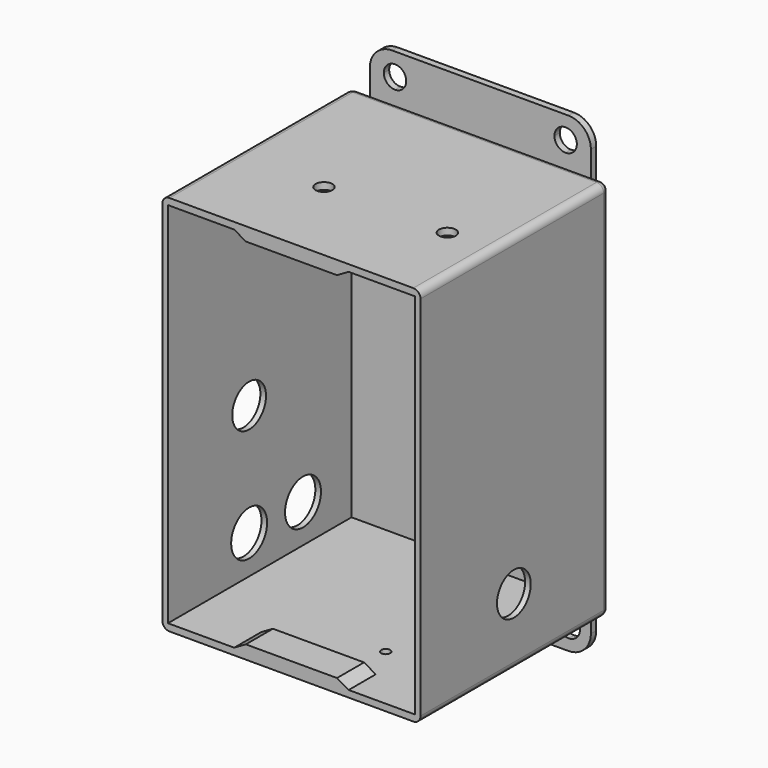
from build123d import *

# Parameters (mm, degrees)
F1_DEPTH   = 66.802
F2_DEPTH   = 1.9
F3_DEPTH   = 1.9
F4_R       = 2.032
F5_DEPTH   = 12.7
F6_DEPTH   = 12.7
F7_R       = 6.35
F8_DEPTH   = 1.5875
F9_R       = 1.27
F10_DEPTH  = 3.81
F11_W      = 43.18
F11_H      = 55.3302187473
F1_FACE3_W = 18.7325
F1_FACE3_H = 64.902
F12_DEPTH  = 1.905
F13_W      = 43.18
F13_H      = 55.3302187473
F14_DEPTH  = 1.905
F15_R      = 2.3749
F16_DEPTH  = 1.905
F17_R      = 5.969
F18_DEPTH  = 1.5875
F19_R      = 5.969
F20_DEPTH  = 1.5875


with BuildPart() as f1:
    # F0 (on Front) → F1 (new body)
    with BuildSketch(Plane.XZ):
        Polygon((62.2927888, 122.2015844), (-0.2547112, 122.2015844), (-5.4934612, 122.2015844), (-5.4934612, 14.2515844), (-0.2547112, 14.2515844), (62.2927888, 14.2515844), (67.5315388, 14.2515844), (67.5315388, 122.2015844), align=None)
        Polygon((65.9440388, 120.2965844), (65.9440388, 16.1565844), (47.2115388, 16.1565844), (43.9119772, 18.0615844), (18.1261004, 18.0615844), (14.8265388, 16.1565844), (-3.9059612, 16.1565844), (-3.9059612, 120.2965844), (14.8265388, 120.2965844), (18.1261004, 118.3915844), (43.9119772, 118.3915844), (47.2115388, 120.2965844), align=None, mode=Mode.SUBTRACT)
    extrude(amount=F1_DEPTH)

    # F0 (on Front) → F3 (join)
    with BuildSketch(Plane.XZ):
        Polygon((47.2115388, 16.1565844), (65.9440388, 16.1565844), (65.9440388, 120.2965844), (47.2115388, 120.2965844), (43.9119772, 118.3915844), (18.1261004, 118.3915844), (14.8265388, 120.2965844), (-3.9059612, 120.2965844), (-3.9059612, 16.1565844), (14.8265388, 16.1565844), (18.1261004, 18.0615844), (43.9119772, 18.0615844), align=None)
    extrude(amount=F3_DEPTH)

    # F4
    f4_edges = [f1.edges().sort_by_distance(p)[0] for p in [
        (-5.493461, -33.401, 122.201584),
        (67.531539, -33.401, 122.201584),
        (67.531539, -33.401, 14.251584),
        (-5.493461, -33.401, 14.251584),
        (-5.493461, 0, 68.226584),
        (67.531539, 0, 68.226584),
        (31.019039, 0, 122.201584),
        (31.019039, 0, 14.251584),
    ]]
    fillet(f4_edges, radius=F4_R)



with BuildPart() as f2:
    # F0 (on Front) → F2 (new body)
    with BuildSketch(Plane.XZ):
        with BuildLine():
            Line((62.2927888, 14.2515844), (-0.2547112, 14.2515844))
            Line((-0.2547112, 14.2515844), (-0.2547112, 7.9015844))
            ThreePointArc((-0.2547112, 7.9015844), (1.6051607395, 3.4114563395), (6.0952888, 1.5515844))
            Line((6.0952888, 1.5515844), (55.9427888, 1.5515844))
            ThreePointArc((55.9427888, 1.5515844), (60.4329168605, 3.4114563395), (62.2927888, 7.9015844))
            Line((62.2927888, 7.9015844), (62.2927888, 14.2515844))
        make_face()
        with BuildLine():
            ThreePointArc((5.2507388, 11.0765844), (7.4958028303, 10.1466484303), (8.4257388, 7.9015844))
            ThreePointArc((8.4257388, 7.9015844), (7.4958028303, 5.6565203697), (5.2507388, 4.7265844))
            ThreePointArc((5.2507388, 4.7265844), (3.0056747697, 5.6565203697), (2.0757388, 7.9015844))
            ThreePointArc((2.0757388, 7.9015844), (3.0056747697, 10.1466484303), (5.2507388, 11.0765844))
        make_face(mode=Mode.SUBTRACT)
        with BuildLine():
            ThreePointArc((56.0253388, 11.0765844), (58.2704028303, 10.1466484303), (59.2003388, 7.9015844))
            ThreePointArc((59.2003388, 7.9015844), (58.2704028303, 5.6565203697), (56.0253388, 4.7265844))
            ThreePointArc((56.0253388, 4.7265844), (53.7802747697, 5.6565203697), (52.8503388, 7.9015844))
            ThreePointArc((52.8503388, 7.9015844), (53.7802747697, 10.1466484303), (56.0253388, 11.0765844))
        make_face(mode=Mode.SUBTRACT)
    extrude(amount=-F2_DEPTH)


with BuildPart() as f2b:
    # F0 (on Front) → F2, piece 2 (new body)
    with BuildSketch(Plane.XZ):
        with BuildLine():
            Line((55.9427888, 134.9015844), (6.0952888, 134.9015844))
            ThreePointArc((6.0952888, 134.9015844), (1.6051607395, 133.0417124605), (-0.2547112, 128.5515844))
            Line((-0.2547112, 128.5515844), (-0.2547112, 122.2015844))
            Line((-0.2547112, 122.2015844), (62.2927888, 122.2015844))
            Line((62.2927888, 122.2015844), (62.2927888, 128.5515844))
            ThreePointArc((62.2927888, 128.5515844), (60.4329168605, 133.0417124605), (55.9427888, 134.9015844))
        make_face()
        with BuildLine():
            ThreePointArc((6.8890388, 131.7265844), (9.1341028303, 130.7966484303), (10.0640388, 128.5515844))
            ThreePointArc((10.0640388, 128.5515844), (9.1341028303, 126.3065203697), (6.8890388, 125.3765844))
            ThreePointArc((6.8890388, 125.3765844), (4.6439747697, 126.3065203697), (3.7140388, 128.5515844))
            ThreePointArc((3.7140388, 128.5515844), (4.6439747697, 130.7966484303), (6.8890388, 131.7265844))
        make_face(mode=Mode.SUBTRACT)
        with BuildLine():
            ThreePointArc((55.1490388, 131.7265844), (57.3941028303, 130.7966484303), (58.3240388, 128.5515844))
            ThreePointArc((58.3240388, 128.5515844), (57.3941028303, 126.3065203697), (55.1490388, 125.3765844))
            ThreePointArc((55.1490388, 125.3765844), (52.9039747697, 126.3065203697), (51.9740388, 128.5515844))
            ThreePointArc((51.9740388, 128.5515844), (52.9039747697, 130.7966484303), (55.1490388, 131.7265844))
        make_face(mode=Mode.SUBTRACT)
    extrude(amount=-F2_DEPTH)


with BuildPart() as f1_1:
    add(f1.part)
    # F5 (add): a face of the model
    f5_faces = [f2.part.faces().sort_by_distance(p)[0] for p in [
        (31.0190388, 0.95, 14.2515844),
    ]]

    add(f2.part)  # F5 merges F2
    extrude(f5_faces, amount=F5_DEPTH)

    # F6 (add): a face of the model
    f6_faces = [f2b.part.faces().sort_by_distance(p)[0] for p in [
        (31.0190388, 0.95, 122.2015844),
    ]]

    add(f2b.part)  # F6 merges F2b
    extrude(f6_faces, amount=F6_DEPTH)

    # F7 (on face) → F8 (cut, through all)
    with BuildSketch(Plane(origin=(-5.4934612, 0, 0), x_dir=(0, -1, 0), z_dir=(-1, 0, 0))):
        with Locations((38.1, 26.9515844)):
            Circle(F7_R)
        with Locations((19.05, 26.9515844)):
            Circle(F7_R)
    extrude(amount=-F8_DEPTH, mode=Mode.SUBTRACT)

    # F9 (on face) → F10 (cut, through all)
    with BuildSketch(Plane(origin=(0, 0, 14.2515844), x_dir=(1, 0, 0), z_dir=(0, 0, -1))):
        with Locations((42.1315388, 47.352)):
            Circle(F9_R)
        with Locations((42.1315388, 22.352)):
            Circle(F9_R)
    extrude(amount=-F10_DEPTH, mode=Mode.SUBTRACT)

    # F11 (on face) + F1_face3 (on face) → F12 (cut, through all)
    with BuildSketch(Plane(origin=(0, 0, 118.3915844), x_dir=(1, 0, 0), z_dir=(0, 0, -1))):
        with Locations((32.6428469086, 29.5651093736)):
            Rectangle(F11_W, F11_H)
    with BuildSketch(Plane(origin=(5.4602888, -34.351, 16.1565844), x_dir=(1, 0, 0), z_dir=(0, 0, 1))):
        Rectangle(F1_FACE3_W, F1_FACE3_H)
    extrude(amount=-F12_DEPTH, dir=(0, 0, -1), mode=Mode.SUBTRACT)

    # F13 (on face) → F14 (cut, through all)
    with BuildSketch(Plane.XY.offset(18.0615844)):
        with Locations((30.3840388, -29.5651093736)):
            Rectangle(F13_W, F13_H)
    extrude(amount=-F14_DEPTH, mode=Mode.SUBTRACT)

    # F15 (on face) → F16 (cut, through all)
    with BuildSketch(Plane.XY.offset(122.2015844)):
        with Locations((19.9065388, -41.402)):
            Circle(F15_R)
        with Locations((54.8315388, -41.402)):
            Circle(F15_R)
    extrude(amount=-F16_DEPTH, mode=Mode.SUBTRACT)

    # F17 (on face) → F18 (cut, through all)
    with BuildSketch(Plane.YZ.offset(67.5315388)):
        with Locations((-33.782, 33.3015844)):
            Circle(F17_R)
    extrude(amount=-F18_DEPTH, mode=Mode.SUBTRACT)

    # F19 (on face) → F20 (cut, through all)
    with BuildSketch(Plane(origin=(-5.4934612, 0, 0), x_dir=(0, -1, 0), z_dir=(-1, 0, 0))):
        with Locations((38.1, 58.7015844)):
            Circle(F19_R)
    extrude(amount=-F20_DEPTH, mode=Mode.SUBTRACT)


solid = f1_1.part
